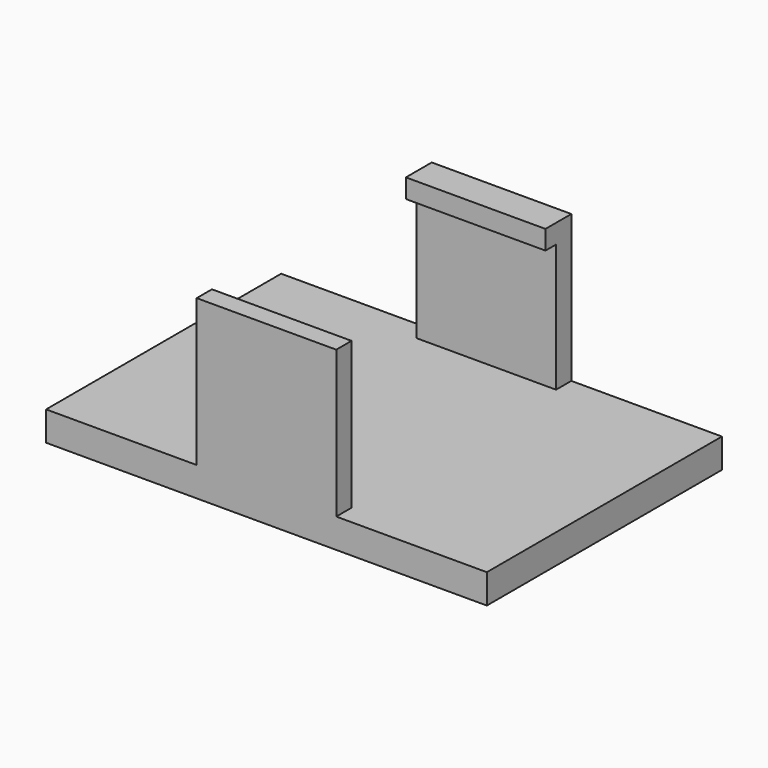
from build123d import *

# Parameters (mm, degrees)
SKETCH_W     = 30
SKETCH_H     = 20
PAD_DEPTH    = 2
SKETCH001_W  = 9.5
SKETCH001_H  = 1.3
PAD001_DEPTH = 10
SKETCH002_W  = 9.5
SKETCH002_H  = 2.2
PAD002_DEPTH = 1.3


with BuildPart() as part:
    # Sketch → Pad (new body)
    with BuildSketch(Plane.XY):
        Rectangle(SKETCH_W, SKETCH_H)
    extrude(amount=PAD_DEPTH)

    # Sketch001 (on Face6 of Pad) → Pad001 (join)
    with BuildSketch(Plane.XY.offset(2)):
        with Locations((0, 9.35)):
            Rectangle(SKETCH001_W, SKETCH001_H)
        with Locations((0, -9.35)):
            Rectangle(SKETCH001_W, SKETCH001_H)
    extrude(amount=PAD001_DEPTH)

    # Sketch002 (on Face16 of Pad001) → Pad002 (join)
    with BuildSketch(Plane.XY.offset(12)):
        with Locations((0, 8.9)):
            Rectangle(SKETCH002_W, SKETCH002_H)
    extrude(amount=-PAD002_DEPTH)


solid = part.part
